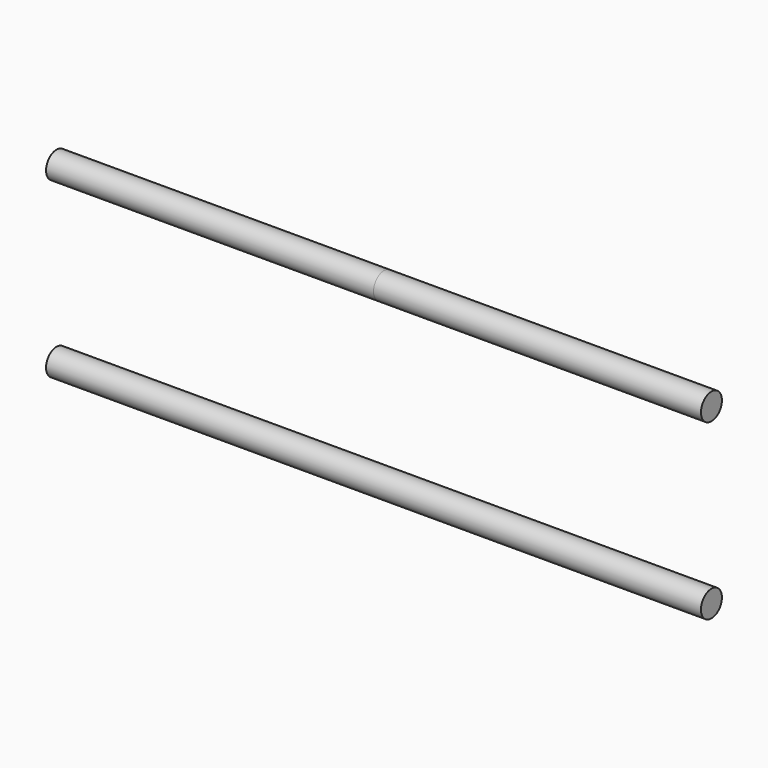
from build123d import *

# Parameters (mm, degrees)
F0_R     = 4
F1_DEPTH = 100


with BuildPart() as f1:
    # F0 (on Right) → F1 (new body, symmetric)
    with BuildSketch(Plane.YZ):
        with Locations((0, 26.5)):
            Circle(F0_R)
        with Locations((0, -26.5)):
            Circle(F0_R)
    extrude(amount=F1_DEPTH, both=True)


solid = f1.part
